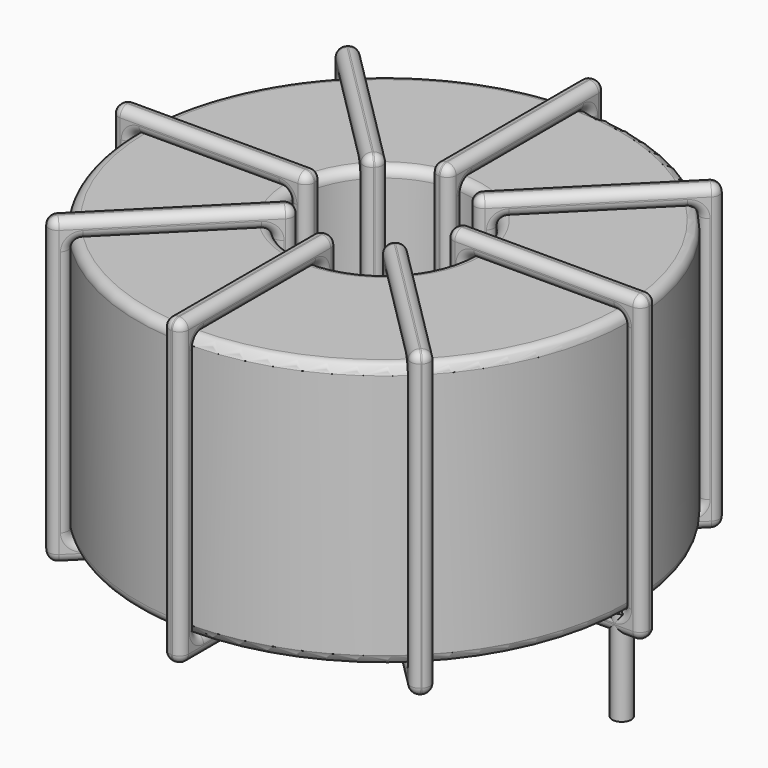
from build123d import *

# Parameters (mm, degrees)
SKETCH001_R       = 0.5
PAD001_DEPTH      = 0.5
PAD001_DEPTH_BACK = 4.5
SKETCH_R          = 13
SKETCH_R_2        = 4.666667
PAD_DEPTH         = 14
FILLET_R          = 0.5
SKETCH003_W       = 10.333333
SKETCH003_H       = 16
SKETCH003_W_2     = 8.333333
SKETCH003_H_2     = 14
PAD002_DEPTH      = 0.5
FILLET001_R       = 0.47
SKETCH004_W       = 10.333333
SKETCH004_H       = 16
SKETCH004_W_2     = 8.333333
SKETCH004_H_2     = 14
PAD003_DEPTH      = 0.5
FILLET002_R       = 0.47
SKETCH005_W       = 10.333333
SKETCH005_H       = 16
SKETCH005_W_2     = 8.333333
SKETCH005_H_2     = 14
PAD004_DEPTH      = 0.5
FILLET003_R       = 0.47
SKETCH006_W       = 10.333333
SKETCH006_H       = 16
SKETCH006_W_2     = 8.333333
SKETCH006_H_2     = 14
PAD005_DEPTH      = 0.5
FILLET004_R       = 0.47


with BuildPart() as pad001:
    # Sketch001 → Pad001 (new body, two sides)
    with BuildSketch(Plane.XY.offset(1)) as pad001_sk:
        Circle(SKETCH001_R)
        with Locations((25.1, 0)):
            Circle(SKETCH001_R)
    extrude(amount=PAD001_DEPTH)
    extrude(pad001_sk.sketch, amount=-PAD001_DEPTH_BACK)


with BuildPart() as fillet_body:
    # Sketch → Pad (new body)
    with BuildSketch(Plane.XY.offset(1.5)):
        with Locations((12.55, 0)):
            Circle(SKETCH_R)
        with Locations((12.55, 0)):
            Circle(SKETCH_R_2, mode=Mode.SUBTRACT)
    extrude(amount=PAD_DEPTH)

    # Fillet
    fillet_edges = [fillet_body.edges().sort_by_distance(p)[0] for p in [
        (7.883333, 0, 15.5),
        (-0.45, 0, 15.5),
        (-0.45, 0, 1.5),
    ]]
    fillet(fillet_edges, radius=FILLET_R)


with BuildPart() as fillet001:
    # Sketch003 → Pad002 (new body, symmetric)
    with BuildSketch(Plane(origin=(12.55, 0, 0), x_dir=(1, 0, 0), z_dir=(0, -1, 0))):
        with Locations((-8.833334, 8.5)):
            Rectangle(SKETCH003_W, SKETCH003_H)
        with Locations((-8.833334, 8.5)):
            Rectangle(SKETCH003_W_2, SKETCH003_H_2, mode=Mode.SUBTRACT)
        with Locations((8.833334, 8.5)):
            Rectangle(SKETCH003_W, SKETCH003_H)
        with Locations((8.833334, 8.5)):
            Rectangle(SKETCH003_W_2, SKETCH003_H_2, mode=Mode.SUBTRACT)
    extrude(amount=PAD002_DEPTH, both=True)

    # Fillet001
    fillet001_edges = [fillet001.edges().sort_by_distance(p)[0] for p in [
        (7.883333, 0, 15.5),
        (7.883333, 0, 1.5),
        (7.883333, 0.5, 8.5),
        (7.883333, -0.5, 8.5),
        (-1.45, 0, 16.5),
        (8.883333, 0, 16.5),
        (3.716667, 0.5, 16.5),
        (3.716667, -0.5, 16.5),
        (8.883333, 0, 0.5),
        (8.883333, 0.5, 8.5),
        (8.883333, -0.5, 8.5),
        (17.216667, 0, 15.5),
        (25.55, 0, 15.5),
        (21.383333, 0.5, 15.5),
        (21.383333, -0.5, 15.5),
        (25.55, 0, 1.5),
        (25.55, 0.5, 8.5),
        (25.55, -0.5, 8.5),
        (16.216667, 0, 16.5),
        (26.55, 0, 16.5),
        (21.383333, 0.5, 16.5),
        (21.383333, -0.5, 16.5),
        (26.55, 0, 0.5),
        (26.55, 0.5, 8.5),
        (26.55, -0.5, 8.5),
        (-0.45, 0, 15.5),
        (3.716667, 0.5, 15.5),
        (3.716667, -0.5, 15.5),
        (17.216667, 0, 1.5),
        (17.216667, 0.5, 8.5),
        (17.216667, -0.5, 8.5),
        (21.383333, 0.5, 1.5),
        (21.383333, -0.5, 1.5),
        (16.216667, 0, 0.5),
        (21.383333, 0.5, 0.5),
        (21.383333, -0.5, 0.5),
        (16.216667, 0.5, 8.5),
        (16.216667, -0.5, 8.5),
        (-1.45, 0, 0.5),
        (3.716667, 0.5, 0.5),
        (3.716667, -0.5, 0.5),
        (-1.45, 0.5, 8.5),
        (-1.45, -0.5, 8.5),
        (-0.45, 0, 1.5),
        (-0.45, 0.5, 8.5),
        (-0.45, -0.5, 8.5),
        (3.716667, 0.5, 1.5),
        (3.716667, -0.5, 1.5),
    ]]
    fillet(fillet001_edges, radius=FILLET001_R)


with BuildPart() as fillet002:
    # Sketch004 → Pad003 (new body, symmetric)
    with BuildSketch(Plane(origin=(12.55, 0, 0), x_dir=(0.707107, 0.707107, 0), z_dir=(0.707107, -0.707107, 0))):
        with Locations((-8.833334, 8.5)):
            Rectangle(SKETCH004_W, SKETCH004_H)
        with Locations((-8.833334, 8.5)):
            Rectangle(SKETCH004_W_2, SKETCH004_H_2, mode=Mode.SUBTRACT)
        with Locations((8.833334, 8.5)):
            Rectangle(SKETCH004_W, SKETCH004_H)
        with Locations((8.833334, 8.5)):
            Rectangle(SKETCH004_W_2, SKETCH004_H_2, mode=Mode.SUBTRACT)
    extrude(amount=PAD003_DEPTH, both=True)

    # Fillet002
    fillet002_edges = [fillet002.edges().sort_by_distance(p)[0] for p in [
        (9.250168, -3.299832, 15.5),
        (9.250168, -3.299832, 1.5),
        (8.896615, -2.946278, 8.5),
        (9.603722, -3.653385, 8.5),
        (2.650505, -9.899495, 16.5),
        (9.957275, -2.592725, 16.5),
        (5.950337, -5.892557, 16.5),
        (6.657443, -6.599663, 16.5),
        (9.957275, -2.592725, 0.5),
        (9.603722, -2.239171, 8.5),
        (10.310829, -2.946278, 8.5),
        (15.849832, 3.299832, 15.5),
        (21.742388, 9.192388, 15.5),
        (18.442557, 6.599663, 15.5),
        (19.149663, 5.892557, 15.5),
        (21.742388, 9.192388, 1.5),
        (21.388835, 9.545942, 8.5),
        (22.095942, 8.838835, 8.5),
        (15.142725, 2.592725, 16.5),
        (22.449495, 9.899495, 16.5),
        (18.442557, 6.599663, 16.5),
        (19.149663, 5.892557, 16.5),
        (22.449495, 9.899495, 0.5),
        (22.095942, 10.253048, 8.5),
        (22.803048, 9.545942, 8.5),
        (3.357612, -9.192388, 15.5),
        (5.950337, -5.892557, 15.5),
        (6.657443, -6.599663, 15.5),
        (15.849832, 3.299832, 1.5),
        (15.496278, 3.653385, 8.5),
        (16.203385, 2.946278, 8.5),
        (18.442557, 6.599663, 1.5),
        (19.149663, 5.892557, 1.5),
        (15.142725, 2.592725, 0.5),
        (18.442557, 6.599663, 0.5),
        (19.149663, 5.892557, 0.5),
        (14.789171, 2.946278, 8.5),
        (15.496278, 2.239171, 8.5),
        (2.650505, -9.899495, 0.5),
        (5.950337, -5.892557, 0.5),
        (6.657443, -6.599663, 0.5),
        (2.296952, -9.545942, 8.5),
        (3.004058, -10.253048, 8.5),
        (3.357612, -9.192388, 1.5),
        (3.004058, -8.838835, 8.5),
        (3.711165, -9.545942, 8.5),
        (5.950337, -5.892557, 1.5),
        (6.657443, -6.599663, 1.5),
    ]]
    fillet(fillet002_edges, radius=FILLET002_R)


with BuildPart() as fillet003:
    # Sketch005 → Pad004 (new body, symmetric)
    with BuildSketch(Plane(origin=(12.55, 0, 0), x_dir=(0.707107, -0.707107, 0), z_dir=(-0.707107, -0.707107, 0))):
        with Locations((-8.833334, 8.5)):
            Rectangle(SKETCH005_W, SKETCH005_H)
        with Locations((-8.833334, 8.5)):
            Rectangle(SKETCH005_W_2, SKETCH005_H_2, mode=Mode.SUBTRACT)
        with Locations((8.833334, 8.5)):
            Rectangle(SKETCH005_W, SKETCH005_H)
        with Locations((8.833334, 8.5)):
            Rectangle(SKETCH005_W_2, SKETCH005_H_2, mode=Mode.SUBTRACT)
    extrude(amount=PAD004_DEPTH, both=True)

    # Fillet003
    fillet003_edges = [fillet003.edges().sort_by_distance(p)[0] for p in [
        (3.357612, 9.192388, 15.5),
        (9.250168, 3.299832, 1.5),
        (6.657443, 6.599663, 1.5),
        (5.950337, 5.892557, 1.5),
        (2.650505, 9.899495, 16.5),
        (2.650505, 9.899495, 0.5),
        (3.004058, 10.253048, 8.5),
        (2.296952, 9.545942, 8.5),
        (9.957275, 2.592725, 16.5),
        (6.657443, 6.599663, 0.5),
        (5.950337, 5.892557, 0.5),
        (15.849832, -3.299832, 15.5),
        (21.742388, -9.192388, 15.5),
        (19.149663, -5.892557, 15.5),
        (18.442557, -6.599663, 15.5),
        (21.742388, -9.192388, 1.5),
        (22.095942, -8.838835, 8.5),
        (21.388835, -9.545942, 8.5),
        (15.142725, -2.592725, 16.5),
        (22.449495, -9.899495, 16.5),
        (19.149663, -5.892557, 16.5),
        (18.442557, -6.599663, 16.5),
        (22.449495, -9.899495, 0.5),
        (22.803048, -9.545942, 8.5),
        (22.095942, -10.253048, 8.5),
        (3.357612, 9.192388, 1.5),
        (3.711165, 9.545942, 8.5),
        (3.004058, 8.838835, 8.5),
        (15.849832, -3.299832, 1.5),
        (16.203385, -2.946278, 8.5),
        (15.496278, -3.653385, 8.5),
        (19.149663, -5.892557, 1.5),
        (18.442557, -6.599663, 1.5),
        (15.142725, -2.592725, 0.5),
        (19.149663, -5.892557, 0.5),
        (18.442557, -6.599663, 0.5),
        (15.496278, -2.239171, 8.5),
        (14.789171, -2.946278, 8.5),
        (9.957275, 2.592725, 0.5),
        (10.310829, 2.946278, 8.5),
        (9.603722, 2.239171, 8.5),
        (6.657443, 6.599663, 16.5),
        (5.950337, 5.892557, 16.5),
        (9.250168, 3.299832, 15.5),
        (6.657443, 6.599663, 15.5),
        (5.950337, 5.892557, 15.5),
        (9.603722, 3.653385, 8.5),
        (8.896615, 2.946278, 8.5),
    ]]
    fillet(fillet003_edges, radius=FILLET003_R)


with BuildPart() as fillet004:
    # Sketch006 → Pad005 (new body, symmetric)
    with BuildSketch(Plane.YZ.offset(12.55)):
        with Locations((-8.833334, 8.5)):
            Rectangle(SKETCH006_W, SKETCH006_H)
        with Locations((-8.833334, 8.5)):
            Rectangle(SKETCH006_W_2, SKETCH006_H_2, mode=Mode.SUBTRACT)
        with Locations((8.833334, 8.5)):
            Rectangle(SKETCH006_W, SKETCH006_H)
        with Locations((8.833334, 8.5)):
            Rectangle(SKETCH006_W_2, SKETCH006_H_2, mode=Mode.SUBTRACT)
    extrude(amount=PAD005_DEPTH, both=True)

    # Fillet004
    fillet004_edges = [fillet004.edges().sort_by_distance(p)[0] for p in [
        (12.55, -4.666667, 15.5),
        (12.55, -4.666667, 1.5),
        (12.05, -4.666667, 8.5),
        (13.05, -4.666667, 8.5),
        (12.55, -14, 16.5),
        (12.55, -3.666667, 16.5),
        (12.05, -8.833333, 16.5),
        (13.05, -8.833333, 16.5),
        (12.55, -3.666667, 0.5),
        (12.05, -3.666667, 8.5),
        (13.05, -3.666667, 8.5),
        (12.55, 4.666667, 15.5),
        (12.55, 13, 15.5),
        (12.05, 8.833333, 15.5),
        (13.05, 8.833333, 15.5),
        (12.55, 13, 1.5),
        (12.05, 13, 8.5),
        (13.05, 13, 8.5),
        (12.55, 3.666667, 16.5),
        (12.55, 14, 16.5),
        (12.05, 8.833333, 16.5),
        (13.05, 8.833333, 16.5),
        (12.55, 14, 0.5),
        (12.05, 14, 8.5),
        (13.05, 14, 8.5),
        (12.55, -13, 15.5),
        (12.05, -8.833333, 15.5),
        (13.05, -8.833333, 15.5),
        (12.55, 4.666667, 1.5),
        (12.05, 4.666667, 8.5),
        (13.05, 4.666667, 8.5),
        (12.05, 8.833333, 1.5),
        (13.05, 8.833333, 1.5),
        (12.55, 3.666667, 0.5),
        (12.05, 8.833333, 0.5),
        (13.05, 8.833333, 0.5),
        (12.05, 3.666667, 8.5),
        (13.05, 3.666667, 8.5),
        (12.55, -14, 0.5),
        (12.05, -8.833333, 0.5),
        (13.05, -8.833333, 0.5),
        (12.05, -14, 8.5),
        (13.05, -14, 8.5),
        (12.55, -13, 1.5),
        (12.05, -13, 8.5),
        (13.05, -13, 8.5),
        (12.05, -8.833333, 1.5),
        (13.05, -8.833333, 1.5),
    ]]
    fillet(fillet004_edges, radius=FILLET004_R)


solid = Compound([pad001.part, fillet_body.part, fillet001.part, fillet002.part, fillet003.part, fillet004.part])
